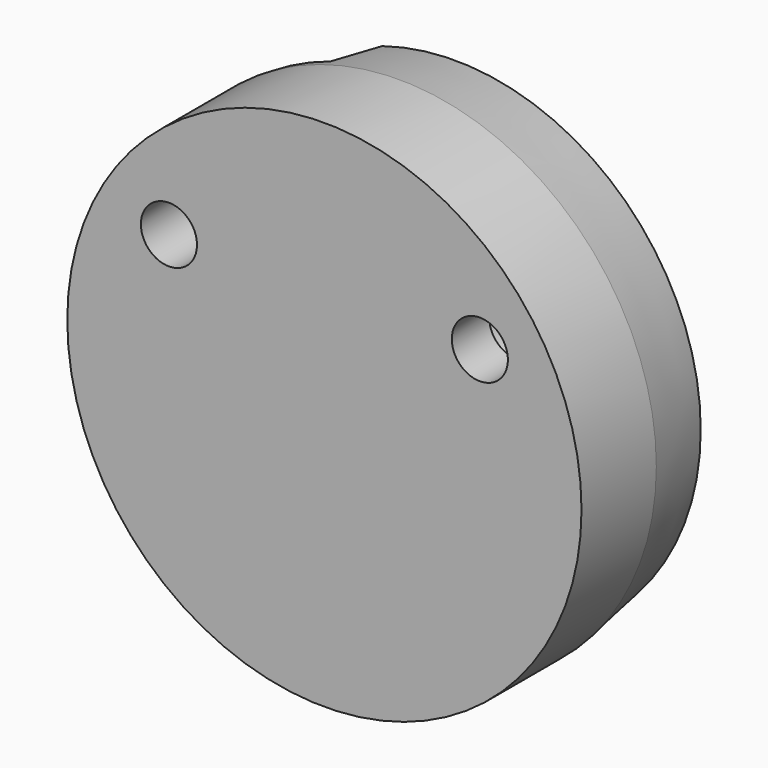
from build123d import *

# Parameters (mm, degrees)
F3_R      = 1.85
F4_DEPTH  = 7
F5_R      = 1.2
F6_DEPTH  = 2
F8_DEPTH  = 4.5
F9_R      = 1
F10_R     = 1.2
F11_DEPTH = 4.5
F12_R     = 5


with BuildPart() as f1:
    # F0 (on Top) → F1 (revolve)
    with BuildSketch(Plane.XY):
        with BuildLine():
            Line((0, 9), (0, 0))
            Line((0, 0), (11, 0))
            Line((11, 0), (11, 4))
            Line((11, 4), (10.5, 7))
            ThreePointArc((10.5, 7), (10.0017468007, 7.1915925315), (9.5, 7.3738398822))
            Line((9.5, 7.3738398822), (9.5, 6.5449972332))
            Line((9.5, 6.5449972332), (9, 6.5449972332))
            Line((9, 6.5449972332), (9, 7.5449972332))
            ThreePointArc((9, 7.5449972332), (4.5584271698, 8.6339031037), (0, 9))
        make_face()
    revolve(axis=Axis((0, 4.5, 0), (0, 1, 0)))

    # F3 (on offset) → F4 (cut)
    with BuildSketch(Plane.XZ.offset(-9)):
        with Locations((6.65, 4.625)):
            Circle(F3_R)
    extrude(amount=F4_DEPTH, mode=Mode.SUBTRACT)

    # F5 (on face) → F6 (cut, through all)
    with BuildSketch(Plane(origin=(0, 2, 0), x_dir=(-1, 0, 0), z_dir=(0, 1, 0))):
        with Locations((-6.65, 4.625)):
            Circle(F5_R)
    extrude(amount=-F6_DEPTH, mode=Mode.SUBTRACT)

    # F7 (on offset) → F8 (cut)
    with BuildSketch(Plane.XZ.offset(-9)):
        with BuildLine():
            Line((4.9918584287, -4.0461524227), (-3.38657071, 10.4657125331))
            ThreePointArc((-3.38657071, 10.4657125331), (-8.661662033, 6.780531751), (-10.9726648996, 0.775))
            Line((-10.9726648996, 0.775), (-3.1032576969, 0.775))
            Line((-3.1032576969, 0.775), (1.0081415713, -6.3461524227))
            Line((1.0081415713, -6.3461524227), (4.9918584287, -4.0461524227))
        make_face()
    extrude(amount=F8_DEPTH, mode=Mode.SUBTRACT)

    # F9
    f9_edges = [f1.edges().sort_by_distance(p)[0] for p in [
        (4.991858, 6.383907, -4.046152),
        (1.008142, 6.383907, -6.346152),
    ]]
    fillet(f9_edges, radius=F9_R)

    # F10 (on face) → F11 (cut, through all)
    with BuildSketch(Plane(origin=(0, 4.5, 0), x_dir=(-1, 0, 0), z_dir=(0, 1, 0))):
        with Locations((6.65, 4.625)):
            Circle(F10_R)
    extrude(amount=-F11_DEPTH, mode=Mode.SUBTRACT)

    # F12
    f12_edges = [f1.edges().sort_by_distance(p)[0] for p in [
        (-3.103258, 6.66017, 0.775),
    ]]
    fillet(f12_edges, radius=F12_R)


solid = f1.part
